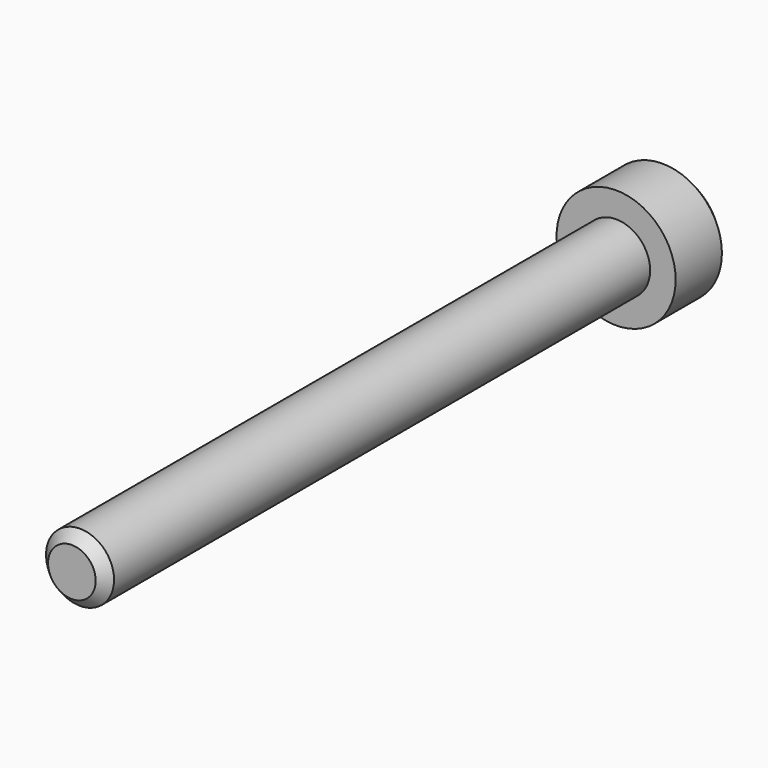
from build123d import *

# Parameters (mm, degrees)
F0_R     = 3.5
F1_DEPTH = 4
F2_R     = 2
F3_DEPTH = 40
F5_DEPTH = 3
F6_SIZE  = 0.6


with BuildPart() as f1:
    # F0 (on Front) → F1 (new body)
    with BuildSketch(Plane.XZ):
        Circle(F0_R)
    extrude(amount=F1_DEPTH)

    # F2 (on face) → F3 (join)
    with BuildSketch(Plane.XZ.offset(4)):
        Circle(F2_R)
    extrude(amount=F3_DEPTH)

    # F4 (on face) → F5 (cut)
    with BuildSketch(Plane(origin=(0, 0, 0), x_dir=(-1, 0, 0), z_dir=(0, 1, 0))):
        Polygon((1.154701, 2), (-1.154701, 2), (-2.309401, 0), (-1.154701, -2), (1.154701, -2), (2.309401, 0), align=None)
    extrude(amount=-F5_DEPTH, mode=Mode.SUBTRACT)

    # F6
    f6_edges = [f1.edges().sort_by_distance(p)[0] for p in [
        (-3.5, 0, 0),
        (-2, -44, 0),
    ]]
    chamfer(f6_edges, length=F6_SIZE)


solid = f1.part
